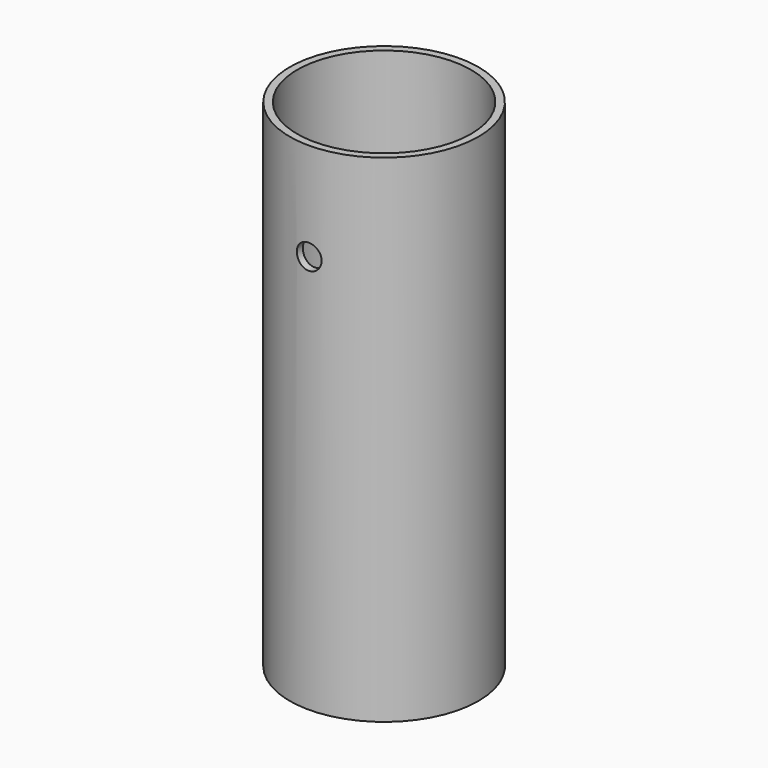
from build123d import *

# Parameters (mm, degrees)
F0_R     = 38
F0_R_2   = 35
F1_DEPTH = 200
F2_R     = 5
F3_DEPTH = 125


with BuildPart() as f1:
    # F0 (on Top) → F1 (new body)
    with BuildSketch(Plane.XY):
        Circle(F0_R)
        Circle(F0_R_2, mode=Mode.SUBTRACT)
    extrude(amount=F1_DEPTH)


with BuildPart() as f3:
    # F2 (on Front) → F3 (new body)
    with BuildSketch(Plane.XZ):
        with Locations((-62.210366, -16.730187)):
            Circle(F2_R)
    extrude(amount=F3_DEPTH)


with BuildPart() as f3_1:
    # F4: moved
    add(f3.part.moved(Location((62.21, 60.4497, 177.31))))


with BuildPart() as f1_1:
    add(f1.part)

    # F5: cut F3
    add(f3_1.part, mode=Mode.SUBTRACT)


solid = f1_1.part
